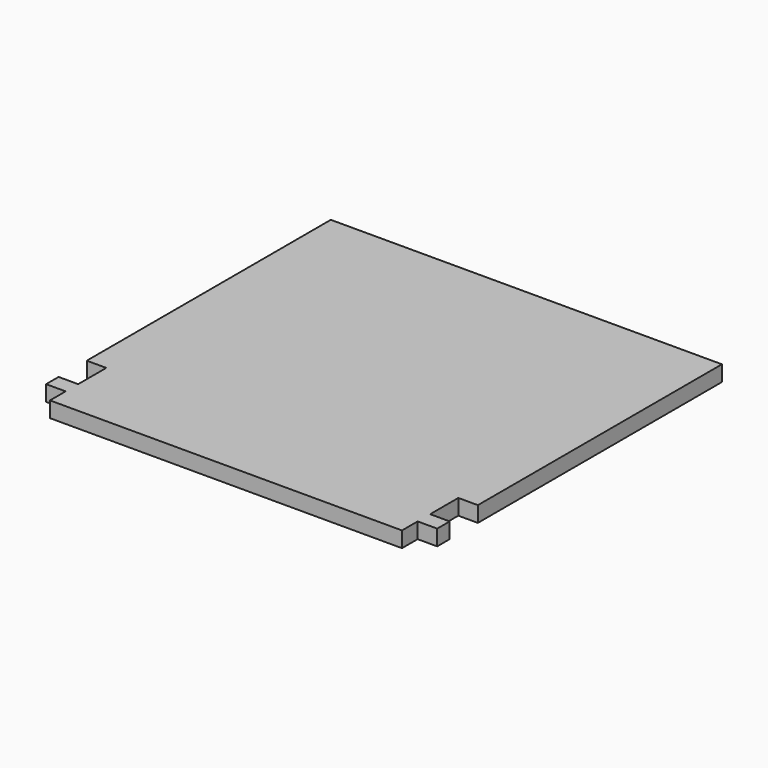
from build123d import *

# Parameters (mm, degrees)
F0_W      = 100
F0_H      = 100
F1_DEPTH  = 4
F2_W      = 5
F2_H      = 22
F3_DEPTH  = 4
F4_W      = 10
F4_H      = 4
F5_DEPTH  = 4
F6_W      = 5
F6_H      = 4
F7_DEPTH  = 4
F8_W      = 5
F8_H      = 4
F9_DEPTH  = 4
F10_W     = 90
F10_H     = 4
F11_DEPTH = 4


with BuildPart() as f1:
    # F0 (on Top) → F1 (new body)
    with BuildSketch(Plane.XY):
        with Locations((50, 50)):
            Rectangle(F0_W, F0_H)
    extrude(amount=F1_DEPTH)

    # F2 (on Top) → F3 (cut)
    with BuildSketch(Plane.XY):
        with Locations((2.5, 11)):
            Rectangle(F2_W, F2_H)
        with Locations((97.5, 11)):
            Rectangle(F2_W, F2_H)
    extrude(amount=F3_DEPTH, mode=Mode.SUBTRACT)

    # F4 (on Top) → F5 (join)
    with BuildSketch(Plane.XY):
        with Locations((0, 11)):
            Rectangle(F4_W, F4_H)
        with Locations((100, 11)):
            Rectangle(F4_W, F4_H)
    extrude(amount=F5_DEPTH)

    # F6 (on Top) → F7 (cut)
    with BuildSketch(Plane.XY):
        with Locations((-2.5, 11)):
            Rectangle(F6_W, F6_H)
    extrude(amount=F7_DEPTH, mode=Mode.SUBTRACT)

    # F8 (on Top) → F9 (cut)
    with BuildSketch(Plane.XY):
        with Locations((102.5, 11)):
            Rectangle(F8_W, F8_H)
    extrude(amount=F9_DEPTH, mode=Mode.SUBTRACT)

    # F10 (on Top) → F11 (cut)
    with BuildSketch(Plane.XY):
        with Locations((50, 2)):
            Rectangle(F10_W, F10_H)
    extrude(amount=F11_DEPTH, mode=Mode.SUBTRACT)


solid = f1.part
